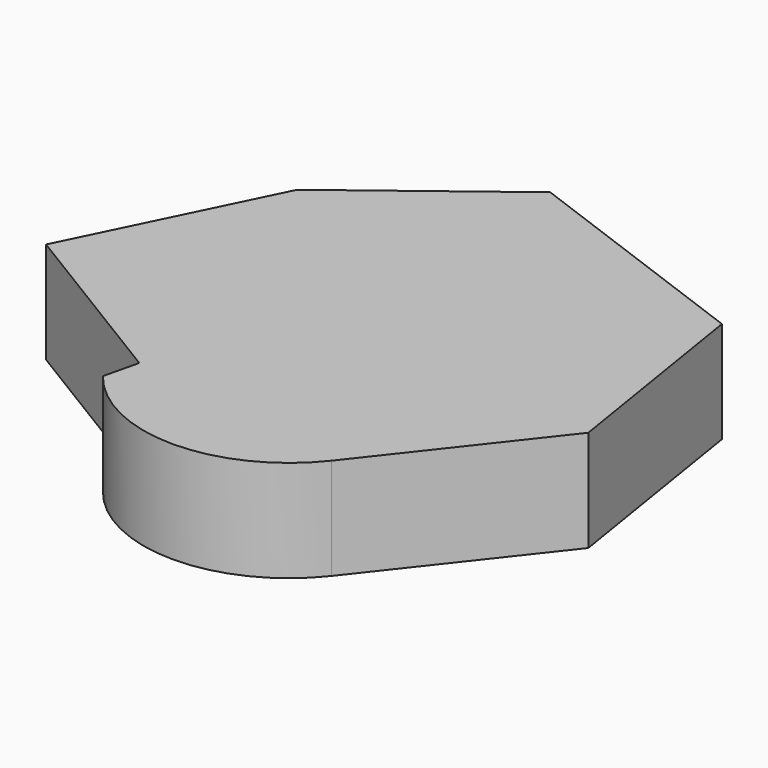
from build123d import *

# Parameters (mm, degrees)
F2_DEPTH = 25.4


with BuildPart() as f2:
    # F1 (on Top) → F2 (new body)
    with BuildSketch(Plane.XY):
        with BuildLine():
            Line((23.828477, 48.702061), (0, 0))
            Line((0, 0), (45.566738, -27.799875))
            Line((45.566738, -27.799875), (43.476522, -36.578774))
            ThreePointArc((43.476522, -36.578774), (72.112486, -50.521071), (100.74845, -36.578774))
            Line((100.74845, -36.578774), (132.519752, 3.971428))
            Line((132.519752, 3.971428), (124.158859, 56.226842))
            Line((124.158859, 56.226842), (63.124537, 78.801185))
            Line((63.124537, 78.801185), (23.828477, 48.702061))
        make_face()
    extrude(amount=F2_DEPTH)


solid = f2.part
